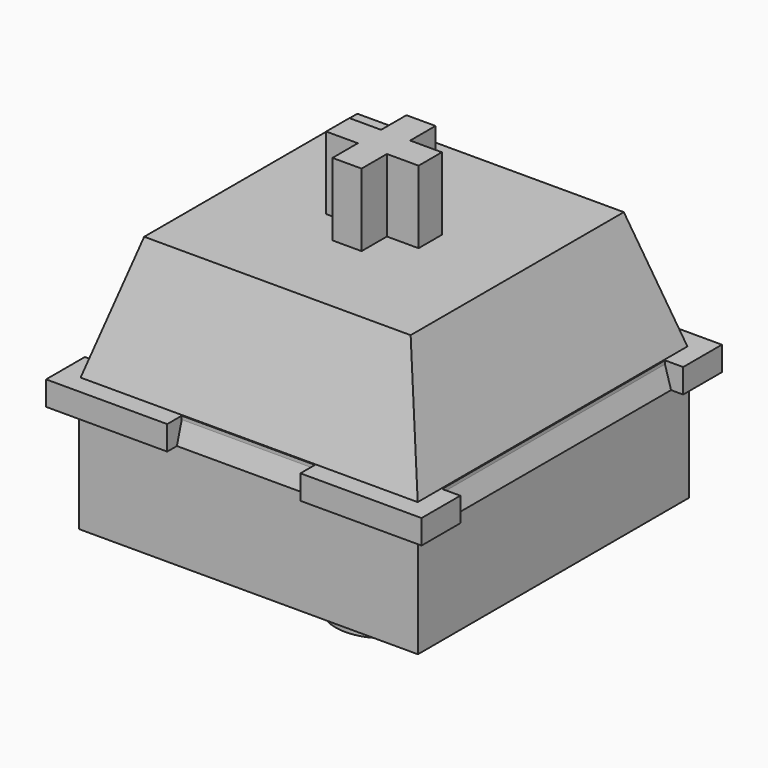
from build123d import *

# Parameters (mm, degrees)
BOX017_W          = 14
BOX017_H          = 14
BOX017_DEPTH      = 4.5
CYLINDER095_R     = 2
CYLINDER095_DEPTH = 8
PAD089_DEPTH      = 1
SKETCH155_W       = 14.5
SKETCH155_H       = 14.5
SKETCH156_W       = 11
SKETCH156_H       = 11
PAD090_DEPTH      = 9
SKETCH158_W       = 7.5
SKETCH158_H       = 6
PAD092_DEPTH      = 1


with BuildPart() as part:
    # Box017 → Box017 (join)
    with BuildSketch(Plane(origin=(7, -7, 0), x_dir=(-1, 0, 0), z_dir=(0, 0, -1))):
        with Locations((7, 7)):
            Rectangle(BOX017_W, BOX017_H)
    extrude(amount=BOX017_DEPTH)

    # Cylinder095 → Cylinder095 (join)
    with BuildSketch(Plane(origin=(0, 0, 0), x_dir=(-1, 0, 0), z_dir=(0, 0, -1))):
        Circle(CYLINDER095_R)
    extrude(amount=CYLINDER095_DEPTH)

    # Sketch154 → Pad089 (join)
    with BuildSketch(Plane.XY):
        Polygon((-7.75, 5.75), (-7.75, 7.75), (-2.75, 7.75), (-2.75, 7), (2.75, 7), (2.75, 7.75), (7.75, 7.75), (7.75, 5.75), (7, 5.75), (7, -5.75), (7.75, -5.75), (7.75, -7.75), (2.75, -7.75), (2.75, -7), (-2.75, -7), (-2.75, -7.75), (-7.75, -7.75), (-7.75, -5.75), (-7, -5.75), (-7, 5.75), align=None)
    extrude(amount=PAD089_DEPTH)

    # Sketch155 → AdditiveLoft002 section 0
    with BuildSketch(Plane.XY):
        Rectangle(SKETCH155_W, SKETCH155_H)
    # Sketch156 → AdditiveLoft002 section 1
    with BuildSketch(Plane.XY.offset(6)):
        Rectangle(SKETCH156_W, SKETCH156_H)
    loft()

    # Sketch157 → Pad090 (join)
    with BuildSketch(Plane.XY):
        Polygon((-0.6, 1.907878), (0.6, 1.907878), (0.6, 0.6), (1.907878, 0.6), (1.907878, -0.6), (0.6, -0.6), (0.6, -1.907878), (-0.6, -1.907878), (-0.6, -0.6), (-1.907878, -0.6), (-1.907878, 0.6), (-0.6, 0.6), align=None)
    extrude(amount=PAD090_DEPTH)

    # Sketch158 → Pad092 (join)
    with BuildSketch(Plane.XY.offset(5)):
        Rectangle(SKETCH158_W, SKETCH158_H)
    extrude(amount=PAD092_DEPTH)


with BuildPart() as part_1:
    # Body181002 placement: moved
    add(part.part.moved(Location((0, -8, 0))))


solid = part_1.part
